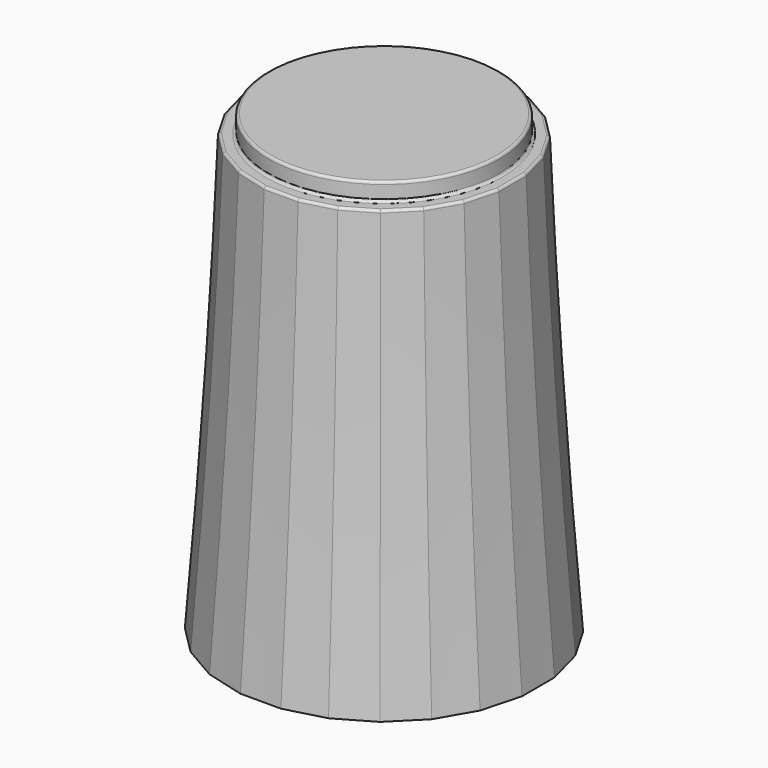
from build123d import *

# Parameters (mm, degrees)
SKETCH415_R     = 4.5
PAD076_DEPTH    = 0.7
SKETCH408_R     = 5
POCKET073_DEPTH = 1
SKETCH418_R     = 4.65
POCKET070_DEPTH = 1
POCKET081_DEPTH = 8
CHAMFER057_SIZE = 1.4
CHAMFER063_SIZE = 0.3
FILLET033_R     = 0.1


with BuildPart() as part:
    # Sketch423 → AdditiveLoft037 section 0
    with BuildSketch(Plane.XY):
        Polygon((-0.789915, 6), (-2.315914, 5.59111), (-3.684086, 4.801195), (-4.801195, 3.684086), (-5.59111, 2.315914), (-6, 0.789915), (-6, -0.789915), (-5.59111, -2.315914), (-4.801195, -3.684086), (-3.684086, -4.801195), (-2.315914, -5.59111), (-0.789915, -6), (0.789915, -6), (2.315914, -5.59111), (3.684086, -4.801195), (4.801195, -3.684086), (5.59111, -2.315914), (6, -0.789915), (6, 0.789915), (5.59111, 2.315914), (4.801195, 3.684086), (3.684086, 4.801195), (2.315914, 5.59111), (0.789915, 6), align=None)
    # Sketch413 → AdditiveLoft037 section 1
    with BuildSketch(Plane.XY.offset(7)):
        Polygon((-0.724089, 5.5), (-2.122921, 5.125184), (-3.377079, 4.401095), (-4.401095, 3.377079), (-5.125184, 2.122921), (-5.5, 0.724089), (-5.5, -0.724089), (-5.125184, -2.122921), (-4.401095, -3.377079), (-3.377079, -4.401095), (-2.122921, -5.125184), (-0.724089, -5.5), (0.724089, -5.5), (2.122921, -5.125184), (3.377079, -4.401095), (4.401095, -3.377079), (5.125184, -2.122921), (5.5, -0.724089), (5.5, 0.724089), (5.125184, 2.122921), (4.401095, 3.377079), (3.377079, 4.401095), (2.122921, 5.125184), (0.724089, 5.5), align=None)
    # Sketch421 → AdditiveLoft037 section 2
    with BuildSketch(Plane.XY.offset(17)):
        Polygon((-4.659258, 1.929928), (-5, 0.658262), (-5, -0.658262), (-4.659258, -1.929928), (-4.000996, -3.070072), (-3.070072, -4.000996), (-1.929928, -4.659258), (-0.658262, -5), (0.658262, -5), (1.929928, -4.659258), (3.070072, -4.000996), (4.000996, -3.070072), (4.659258, -1.929928), (5, -0.658262), (5, 0.658262), (4.659258, 1.929928), (4.000996, 3.070072), (3.070072, 4.000996), (1.929928, 4.659258), (0.658262, 5), (-0.658262, 5), (-1.929928, 4.659258), (-3.070072, 4.000996), (-4.000996, 3.070072), align=None)
    loft()

    # Sketch415 (on Face3 of AdditiveLoft037) → Pad076 (new body)
    with BuildSketch(Plane.XY.offset(17)):
        Circle(SKETCH415_R)
    extrude(amount=PAD076_DEPTH)

    # Sketch408 (on Face1 of Pad076) → Pocket073 (cut)
    with BuildSketch(Plane(origin=(0, 0, 0), x_dir=(1, 0, 0), z_dir=(0, 0, -1))):
        Circle(SKETCH408_R)
    extrude(amount=-POCKET073_DEPTH, mode=Mode.SUBTRACT)

    # Sketch418 (on Face28 of Pocket073) → Pocket070 (cut)
    with BuildSketch(Plane(origin=(0, 0, 1), x_dir=(1, 0, 0), z_dir=(0, 0, -1))):
        Circle(SKETCH418_R)
    extrude(amount=-POCKET070_DEPTH, mode=Mode.SUBTRACT)

    # Sketch407 (on Face32 of Pocket070) → Pocket081 (cut)
    with BuildSketch(Plane(origin=(0, 0, 2), x_dir=(1, 0, 0), z_dir=(0, 0, -1))):
        with BuildLine():
            ThreePointArc((-1.741757, 2.442598), (0, -3), (1.741757, 2.442598))
            Line((-1.741757, 2.442598), (1.741757, 2.442598))
        make_face()
    extrude(amount=-POCKET081_DEPTH, mode=Mode.SUBTRACT)

    # Chamfer057
    chamfer057_edges = [part.edges().sort_by_distance(p)[0] for p in [
        (0, 3, 2),
        (0, -2.442598, 2),
    ]]
    chamfer(chamfer057_edges, length=CHAMFER057_SIZE)

    # Chamfer063
    chamfer063_edges = [part.edges().sort_by_distance(p)[0] for p in [
        (-4.65, 0, 1),
    ]]
    chamfer(chamfer063_edges, length=CHAMFER063_SIZE)

    # Fillet033
    fillet033_edges = [part.edges().sort_by_distance(p)[0] for p in [
        (-4.5, 0, 17.7),
        (-4.829629, 1.294095, 17),
        (-4.330127, 2.5, 17),
        (-5, 0, 17),
        (-3.535534, 3.535534, 17),
        (-4.829629, -1.294095, 17),
        (-2.5, 4.330127, 17),
        (-4.330127, -2.5, 17),
        (-1.294095, 4.829629, 17),
        (-3.535534, -3.535534, 17),
        (0, 5, 17),
        (-2.5, -4.330127, 17),
        (1.294095, 4.829629, 17),
        (-1.294095, -4.829629, 17),
        (2.5, 4.330127, 17),
        (0, -5, 17),
        (3.535534, 3.535534, 17),
        (1.294095, -4.829629, 17),
        (4.330127, 2.5, 17),
        (2.5, -4.330127, 17),
        (4.829629, 1.294095, 17),
        (3.535534, -3.535534, 17),
        (5, 0, 17),
        (4.330127, -2.5, 17),
        (4.829629, -1.294095, 17),
        (-4.5, 0, 17),
    ]]
    fillet(fillet033_edges, radius=FILLET033_R)


solid = part.part
